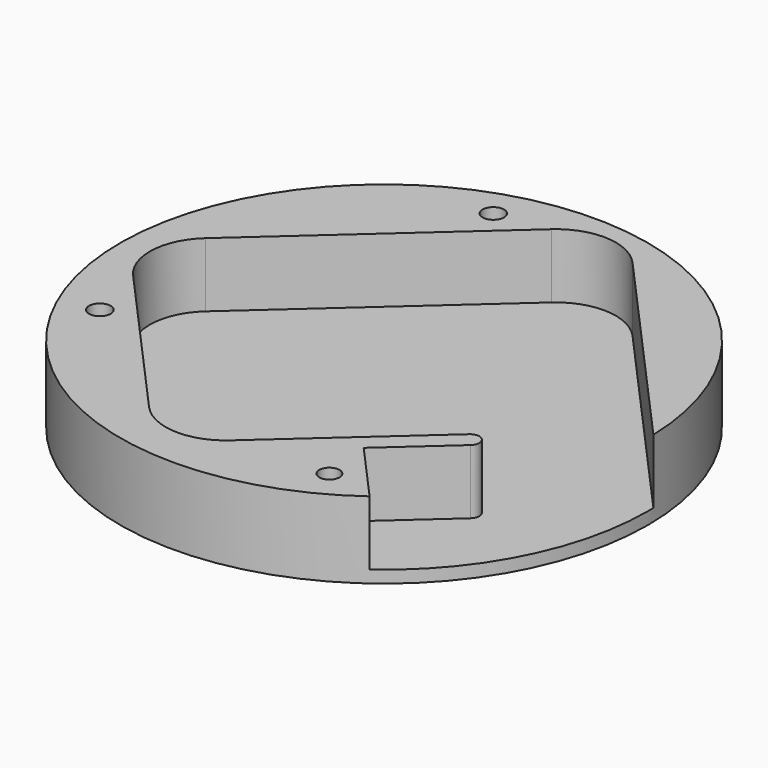
from build123d import *

# Parameters (mm, degrees)
SKETCH030_R     = 43
SKETCH030_R_2   = 1.765
SKETCH030_R_3   = 1.65
SKETCH030_R_4   = 1.75
PAD005_DEPTH    = 12.5
POCKET001_DEPTH = 10.5
SKETCH032_R     = 3
POCKET002_DEPTH = 3.5


with BuildPart() as part:
    # Sketch030 → Pad005 (new body)
    with BuildSketch(Plane.XY):
        Circle(SKETCH030_R)
        with Locations((-33.5, -16)):
            Circle(SKETCH030_R_2, mode=Mode.SUBTRACT)
        with Locations((17.5, -33)):
            Circle(SKETCH030_R_3, mode=Mode.SUBTRACT)
        with Locations((-11, 36)):
            Circle(SKETCH030_R_4, mode=Mode.SUBTRACT)
    extrude(amount=PAD005_DEPTH)

    # Sketch031 (on Face6 of Pad005) → Pocket001 (cut)
    with BuildSketch(Plane.XY.offset(12.5)):
        with BuildLine():
            Line((11.296867, 36.481132), (53.761138, -10.905243))
            Line((53.761138, -10.905243), (26.20627, -35.59794))
            Line((26.20627, -35.59794), (16.463311, -24.725657))
            Line((16.463311, -24.725657), (26.618554, -15.625256))
            ThreePointArc((26.618554, -15.625256), (26.734588, -13.507112), (24.616444, -13.391078))
            Line((24.616444, -13.391078), (1.902296, -33.745868))
            ThreePointArc((-11.896643, -32.989949), (-5.153729, -36.225762), (1.902296, -33.745868))
            Line((-11.896643, -32.989949), (-36.094334, -5.987464))
            ThreePointArc((-35.338415, 7.811475), (-38.574228, 1.068561), (-36.094334, -5.987464))
            Line((-35.338415, 7.811475), (-2.502071, 37.237051))
            ThreePointArc((11.296867, 36.481132), (4.553954, 39.716945), (-2.502071, 37.237051))
        make_face()
    extrude(amount=-POCKET001_DEPTH, mode=Mode.SUBTRACT)

    # Sketch032 → Pocket002 (cut)
    with BuildSketch(Plane.XY):
        with Locations((-33.5, -16)):
            Circle(SKETCH032_R)
        with Locations((17.5, -33)):
            Circle(SKETCH032_R)
        with Locations((-11, 36)):
            Circle(SKETCH032_R)
    extrude(amount=POCKET002_DEPTH, mode=Mode.SUBTRACT)


with BuildPart() as part_1:
    # Body007 placement: moved
    add(part.part.moved(Location((0, 0, -12.46))))


solid = part_1.part
